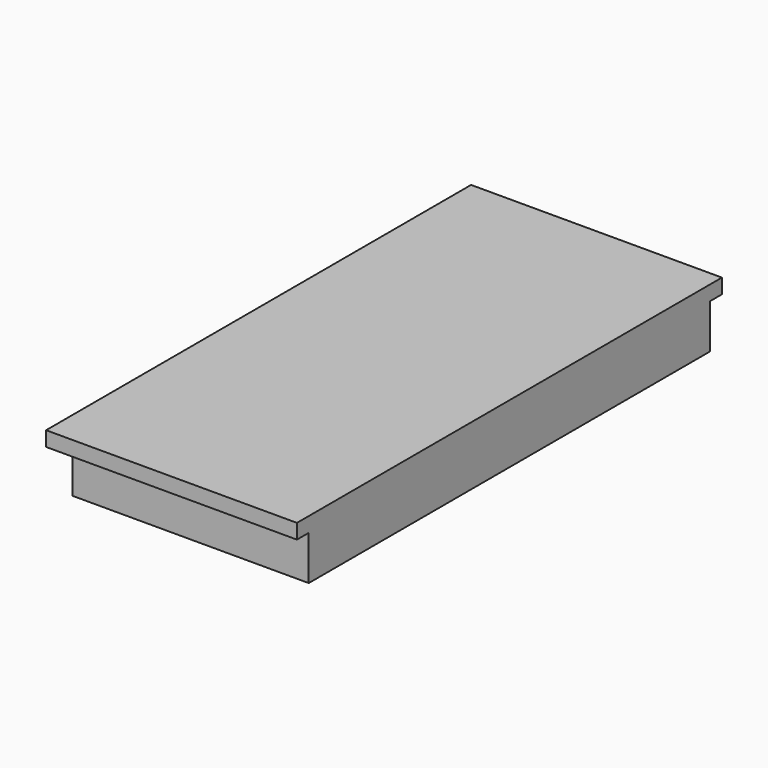
from build123d import *

# Parameters (mm, degrees)
BOX011_W     = 17
BOX011_H     = 36
BOX011_DEPTH = 1
BOX010_W     = 16
BOX010_H     = 34
BOX010_DEPTH = 4


with BuildPart() as cubo011:
    # Box011 → Box011 (new body)
    with BuildSketch(Plane(origin=(-42, -18, 40), x_dir=(1, 0, 0), z_dir=(0, 0, 1))):
        with Locations((8.5, 18)):
            Rectangle(BOX011_W, BOX011_H)
    extrude(amount=BOX011_DEPTH)


with BuildPart() as fusion002:
    # Box010 → Box010 (new body)
    with BuildSketch(Plane(origin=(-41, -17, 37), x_dir=(1, 0, 0), z_dir=(0, 0, 1))):
        with Locations((8, 17)):
            Rectangle(BOX010_W, BOX010_H)
    extrude(amount=BOX010_DEPTH)

    # Fusion002: union Cubo011
    add(cubo011.part)


with BuildPart() as fusion002_1:
    # Fusion002 placement: moved
    add(fusion002.part.moved(Location((0, 0, 19))))


solid = fusion002_1.part
